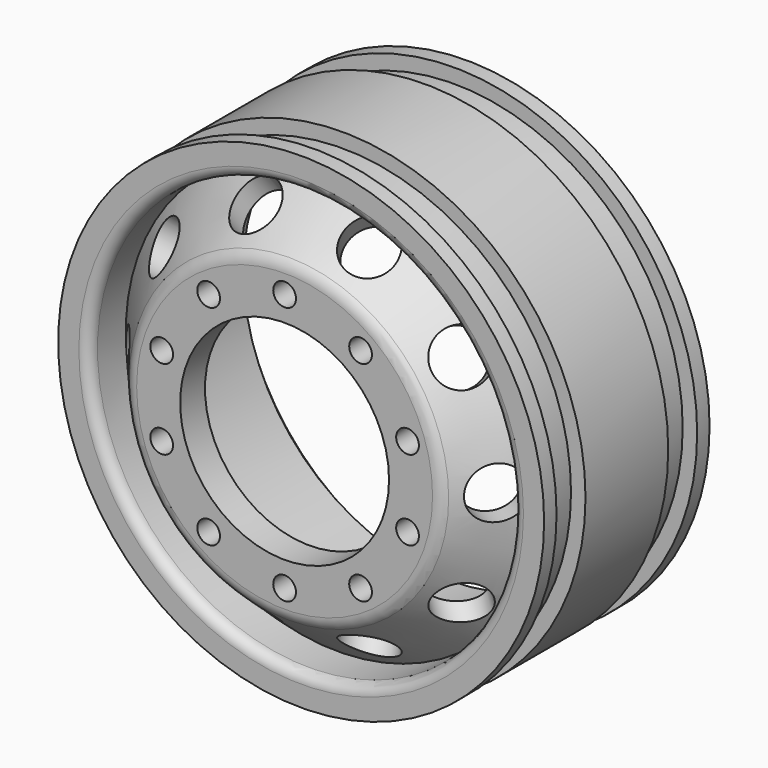
from build123d import *

# Parameters (mm, degrees)
CYLINDER073_R             = 10.1
CYLINDER073_DEPTH         = 26
CYLINDER830_R             = 1.1
CYLINDER830_DEPTH         = 10
CYLINDER829_R             = 1.1
CYLINDER829_DEPTH         = 10
FUSION010_PLACEMENT_ANGLE = 54
CYLINDER831_R             = 1.1
CYLINDER831_DEPTH         = 10
CYLINDER023_R             = 1.1
CYLINDER023_DEPTH         = 10
FUSION011_PLACEMENT_ANGLE = 162
CYLINDER833_R             = 1.1
CYLINDER833_DEPTH         = 10
CYLINDER832_R             = 1.1
CYLINDER832_DEPTH         = 10
FUSION012_PLACEMENT_ANGLE = 126
CYLINDER835_R             = 1.1
CYLINDER835_DEPTH         = 10
CYLINDER834_R             = 1.1
CYLINDER834_DEPTH         = 10
FUSION013_PLACEMENT_ANGLE = 90
CYLINDER828_R             = 1.1
CYLINDER828_DEPTH         = 10
CYLINDER827_R             = 1.1
CYLINDER827_DEPTH         = 10
FUSION009_PLACEMENT_ANGLE = 18
CYLINDER012_R             = 2.5
CYLINDER012_DEPTH         = 8
CYLINDER012_PITCH_ANGLE   = 58
CYLINDER011_R             = 2.5
CYLINDER011_DEPTH         = 8
CYLINDER011_PITCH_ANGLE   = 58
FUSION540_PLACEMENT_ANGLE = 36
CYLINDER014_R             = 2.5
CYLINDER014_DEPTH         = 8
CYLINDER014_PITCH_ANGLE   = 58
CYLINDER013_R             = 2.5
CYLINDER013_DEPTH         = 8
CYLINDER013_PITCH_ANGLE   = 58
FUSION005_PLACEMENT_ANGLE = 72
CYLINDER824_R             = 2.5
CYLINDER824_DEPTH         = 8
CYLINDER824_PITCH_ANGLE   = 58
CYLINDER015_R             = 2.5
CYLINDER015_DEPTH         = 8
CYLINDER015_PITCH_ANGLE   = 58
FUSION006_PLACEMENT_ANGLE = 108
CYLINDER826_R             = 2.5
CYLINDER826_DEPTH         = 8
CYLINDER826_PITCH_ANGLE   = 58
CYLINDER825_R             = 2.5
CYLINDER825_DEPTH         = 8
CYLINDER825_PITCH_ANGLE   = 58
FUSION007_PLACEMENT_ANGLE = 144
CYLINDER823_R             = 2.5
CYLINDER823_DEPTH         = 8
CYLINDER823_PITCH_ANGLE   = 58
CYLINDER822_R             = 2.5
CYLINDER822_DEPTH         = 8
CYLINDER822_PITCH_ANGLE   = 58
CYLINDER821_R             = 20
CYLINDER821_DEPTH         = 12
CYLINDER820_R             = 10
CYLINDER820_DEPTH         = 26
CYLINDER819_R             = 20.5
CYLINDER819_DEPTH         = 10
CYLINDER818_R             = 18.5
CYLINDER818_DEPTH         = 20
CYLINDER817_R             = 22.1
CYLINDER817_DEPTH         = 17
CYLINDER816_R             = 23.5
CYLINDER816_DEPTH         = 17
CYLINDER815_R             = 23.5
CYLINDER815_DEPTH         = 20
CYLINDER814_R             = 22
CYLINDER814_DEPTH         = 17
CYLINDER813_R             = 23.5
CYLINDER813_DEPTH         = 10
FILLET002_R               = 1
CHAMFER001_SIZE           = 1.49
CHAMFER101_SIZE           = 2
FILLET001_R               = 1.5
FILLET_R                  = 1.5
CUT656_ROLL_ANGLE         = 90


with BuildPart() as cylinder073:
    # Cylinder073 → Cylinder073 (new body)
    with BuildSketch(Plane.XY):
        Circle(CYLINDER073_R)
    extrude(amount=CYLINDER073_DEPTH)


with BuildPart() as cylinder830:
    # Cylinder830 → Cylinder830 (new body)
    with BuildSketch(Plane(origin=(-12.5, 0, 13), x_dir=(1, 0, 0), z_dir=(0, 0, 1))):
        Circle(CYLINDER830_R)
    extrude(amount=CYLINDER830_DEPTH)


with BuildPart() as fusion010:
    # Cylinder829 → Cylinder829 (new body)
    with BuildSketch(Plane(origin=(12.5, 0, 13), x_dir=(1, 0, 0), z_dir=(0, 0, 1))):
        Circle(CYLINDER829_R)
    extrude(amount=CYLINDER829_DEPTH)

    # Fusion010: union Cylinder830
    add(cylinder830.part)


with BuildPart() as fusion010_1:
    # Fusion010 placement: moved
    add(fusion010.part.rotate(Axis((0, 0, 0), (0, 0, 1)), FUSION010_PLACEMENT_ANGLE))


with BuildPart() as cylinder831:
    # Cylinder831 → Cylinder831 (new body)
    with BuildSketch(Plane(origin=(-12.5, 0, 13), x_dir=(1, 0, 0), z_dir=(0, 0, 1))):
        Circle(CYLINDER831_R)
    extrude(amount=CYLINDER831_DEPTH)


with BuildPart() as fusion011:
    # Cylinder023 → Cylinder023 (new body)
    with BuildSketch(Plane(origin=(12.5, 0, 13), x_dir=(1, 0, 0), z_dir=(0, 0, 1))):
        Circle(CYLINDER023_R)
    extrude(amount=CYLINDER023_DEPTH)

    # Fusion011: union Cylinder831
    add(cylinder831.part)


with BuildPart() as fusion011_1:
    # Fusion011 placement: moved
    add(fusion011.part.rotate(Axis((0, 0, 0), (0, 0, 1)), FUSION011_PLACEMENT_ANGLE))


with BuildPart() as cylinder999:
    # Cylinder833 → Cylinder833 (new body)
    with BuildSketch(Plane(origin=(-12.5, 0, 13), x_dir=(1, 0, 0), z_dir=(0, 0, 1))):
        Circle(CYLINDER833_R)
    extrude(amount=CYLINDER833_DEPTH)


with BuildPart() as fusion012:
    # Cylinder832 → Cylinder832 (new body)
    with BuildSketch(Plane(origin=(12.5, 0, 13), x_dir=(1, 0, 0), z_dir=(0, 0, 1))):
        Circle(CYLINDER832_R)
    extrude(amount=CYLINDER832_DEPTH)

    # Fusion012: union Cylinder999
    add(cylinder999.part)


with BuildPart() as fusion012_1:
    # Fusion012 placement: moved
    add(fusion012.part.rotate(Axis((0, 0, 0), (0, 0, 1)), FUSION012_PLACEMENT_ANGLE))


with BuildPart() as cylinder1001:
    # Cylinder835 → Cylinder835 (new body)
    with BuildSketch(Plane(origin=(-12.5, 0, 13), x_dir=(1, 0, 0), z_dir=(0, 0, 1))):
        Circle(CYLINDER835_R)
    extrude(amount=CYLINDER835_DEPTH)


with BuildPart() as fusion013:
    # Cylinder834 → Cylinder834 (new body)
    with BuildSketch(Plane(origin=(12.5, 0, 13), x_dir=(1, 0, 0), z_dir=(0, 0, 1))):
        Circle(CYLINDER834_R)
    extrude(amount=CYLINDER834_DEPTH)

    # Fusion013: union Cylinder1001
    add(cylinder1001.part)


with BuildPart() as fusion013_1:
    # Fusion013 placement: moved
    add(fusion013.part.rotate(Axis((0, 0, 0), (0, 0, 1)), FUSION013_PLACEMENT_ANGLE))


with BuildPart() as cylinder828:
    # Cylinder828 → Cylinder828 (new body)
    with BuildSketch(Plane(origin=(-12.5, 0, 13), x_dir=(1, 0, 0), z_dir=(0, 0, 1))):
        Circle(CYLINDER828_R)
    extrude(amount=CYLINDER828_DEPTH)


with BuildPart() as fusion541:
    # Cylinder827 → Cylinder827 (new body)
    with BuildSketch(Plane(origin=(12.5, 0, 13), x_dir=(1, 0, 0), z_dir=(0, 0, 1))):
        Circle(CYLINDER827_R)
    extrude(amount=CYLINDER827_DEPTH)

    # Fusion009: union Cylinder828
    add(cylinder828.part)


with BuildPart() as fusion541_1:
    # Fusion009 placement: moved
    add(fusion541.part.rotate(Axis((0, 0, 0), (0, 0, 1)), FUSION009_PLACEMENT_ANGLE))

    # Fusion541: union Fusion010, Fusion011, Fusion012, Fusion013
    add(fusion010_1.part)
    add(fusion011_1.part)
    add(fusion012_1.part)
    add(fusion013_1.part)


with BuildPart() as cylinder012:
    # Cylinder012 → Cylinder012 (new body)
    with BuildSketch(Plane.XY):
        Circle(CYLINDER012_R)
    extrude(amount=CYLINDER012_DEPTH)


with BuildPart() as cylinder012_1:
    # Cylinder012 pitch: moved
    add(cylinder012.part.rotate(Axis((0, 0, 0), (0, 1, 0)), CYLINDER012_PITCH_ANGLE))


with BuildPart() as cylinder012_2:
    # Cylinder012 placement: moved
    add(cylinder012_1.part.moved(Location((12, 0, 16))))


with BuildPart() as part_mirroring001:
    # Part__Mirroring001: instance of Cylinder012
    add(cylinder012_2.part.mirror(Plane(origin=(0, 0, 0), x_dir=(0, -1, 0), z_dir=(1, 0, 0))))


with BuildPart() as fusion540:
    # Cylinder011 → Cylinder011 (new body)
    with BuildSketch(Plane.XY):
        Circle(CYLINDER011_R)
    extrude(amount=CYLINDER011_DEPTH)


with BuildPart() as fusion540_1:
    # Cylinder011 pitch: moved
    add(fusion540.part.rotate(Axis((0, 0, 0), (0, 1, 0)), CYLINDER011_PITCH_ANGLE))


with BuildPart() as fusion540_2:
    # Cylinder011 placement: moved
    add(fusion540_1.part.moved(Location((12, 0, 16))))

    # Fusion540: union Part__Mirroring001
    add(part_mirroring001.part)


with BuildPart() as fusion540_3:
    # Fusion540 placement: moved
    add(fusion540_2.part.rotate(Axis((0, 0, 0), (0, 0, 1)), FUSION540_PLACEMENT_ANGLE))


with BuildPart() as cylinder014:
    # Cylinder014 → Cylinder014 (new body)
    with BuildSketch(Plane.XY):
        Circle(CYLINDER014_R)
    extrude(amount=CYLINDER014_DEPTH)


with BuildPart() as cylinder014_1:
    # Cylinder014 pitch: moved
    add(cylinder014.part.rotate(Axis((0, 0, 0), (0, 1, 0)), CYLINDER014_PITCH_ANGLE))


with BuildPart() as cylinder014_2:
    # Cylinder014 placement: moved
    add(cylinder014_1.part.moved(Location((12, 0, 16))))


with BuildPart() as part_mirroring002:
    # Part__Mirroring002: instance of Cylinder014
    add(cylinder014_2.part.mirror(Plane(origin=(0, 0, 0), x_dir=(0, -1, 0), z_dir=(1, 0, 0))))


with BuildPart() as fusion005:
    # Cylinder013 → Cylinder013 (new body)
    with BuildSketch(Plane.XY):
        Circle(CYLINDER013_R)
    extrude(amount=CYLINDER013_DEPTH)


with BuildPart() as fusion005_1:
    # Cylinder013 pitch: moved
    add(fusion005.part.rotate(Axis((0, 0, 0), (0, 1, 0)), CYLINDER013_PITCH_ANGLE))


with BuildPart() as fusion005_2:
    # Cylinder013 placement: moved
    add(fusion005_1.part.moved(Location((12, 0, 16))))

    # Fusion005: union Part__Mirroring002
    add(part_mirroring002.part)


with BuildPart() as fusion005_3:
    # Fusion005 placement: moved
    add(fusion005_2.part.rotate(Axis((0, 0, 0), (0, 0, 1)), FUSION005_PLACEMENT_ANGLE))


with BuildPart() as cylinder824:
    # Cylinder824 → Cylinder824 (new body)
    with BuildSketch(Plane.XY):
        Circle(CYLINDER824_R)
    extrude(amount=CYLINDER824_DEPTH)


with BuildPart() as cylinder824_1:
    # Cylinder824 pitch: moved
    add(cylinder824.part.rotate(Axis((0, 0, 0), (0, 1, 0)), CYLINDER824_PITCH_ANGLE))


with BuildPart() as cylinder824_2:
    # Cylinder824 placement: moved
    add(cylinder824_1.part.moved(Location((12, 0, 16))))


with BuildPart() as part_mirroring003:
    # Part__Mirroring003: instance of Cylinder824
    add(cylinder824_2.part.mirror(Plane(origin=(0, 0, 0), x_dir=(0, -1, 0), z_dir=(1, 0, 0))))


with BuildPart() as fusion006:
    # Cylinder015 → Cylinder015 (new body)
    with BuildSketch(Plane.XY):
        Circle(CYLINDER015_R)
    extrude(amount=CYLINDER015_DEPTH)


with BuildPart() as fusion006_1:
    # Cylinder015 pitch: moved
    add(fusion006.part.rotate(Axis((0, 0, 0), (0, 1, 0)), CYLINDER015_PITCH_ANGLE))


with BuildPart() as fusion006_2:
    # Cylinder015 placement: moved
    add(fusion006_1.part.moved(Location((12, 0, 16))))

    # Fusion006: union Part__Mirroring003
    add(part_mirroring003.part)


with BuildPart() as fusion006_3:
    # Fusion006 placement: moved
    add(fusion006_2.part.rotate(Axis((0, 0, 0), (0, 0, 1)), FUSION006_PLACEMENT_ANGLE))


with BuildPart() as cylinder826:
    # Cylinder826 → Cylinder826 (new body)
    with BuildSketch(Plane.XY):
        Circle(CYLINDER826_R)
    extrude(amount=CYLINDER826_DEPTH)


with BuildPart() as cylinder826_1:
    # Cylinder826 pitch: moved
    add(cylinder826.part.rotate(Axis((0, 0, 0), (0, 1, 0)), CYLINDER826_PITCH_ANGLE))


with BuildPart() as cylinder826_2:
    # Cylinder826 placement: moved
    add(cylinder826_1.part.moved(Location((12, 0, 16))))


with BuildPart() as part_mirroring004:
    # Part__Mirroring004: instance of Cylinder826
    add(cylinder826_2.part.mirror(Plane(origin=(0, 0, 0), x_dir=(0, -1, 0), z_dir=(1, 0, 0))))


with BuildPart() as fusion007:
    # Cylinder825 → Cylinder825 (new body)
    with BuildSketch(Plane.XY):
        Circle(CYLINDER825_R)
    extrude(amount=CYLINDER825_DEPTH)


with BuildPart() as fusion007_1:
    # Cylinder825 pitch: moved
    add(fusion007.part.rotate(Axis((0, 0, 0), (0, 1, 0)), CYLINDER825_PITCH_ANGLE))


with BuildPart() as fusion007_2:
    # Cylinder825 placement: moved
    add(fusion007_1.part.moved(Location((12, 0, 16))))

    # Fusion007: union Part__Mirroring004
    add(part_mirroring004.part)


with BuildPart() as fusion007_3:
    # Fusion007 placement: moved
    add(fusion007_2.part.rotate(Axis((0, 0, 0), (0, 0, 1)), FUSION007_PLACEMENT_ANGLE))


with BuildPart() as cylinder823:
    # Cylinder823 → Cylinder823 (new body)
    with BuildSketch(Plane.XY):
        Circle(CYLINDER823_R)
    extrude(amount=CYLINDER823_DEPTH)


with BuildPart() as cylinder823_1:
    # Cylinder823 pitch: moved
    add(cylinder823.part.rotate(Axis((0, 0, 0), (0, 1, 0)), CYLINDER823_PITCH_ANGLE))


with BuildPart() as cylinder823_2:
    # Cylinder823 placement: moved
    add(cylinder823_1.part.moved(Location((12, 0, 16))))


with BuildPart() as part_mirroring:
    # Part__Mirroring: instance of Cylinder823
    add(cylinder823_2.part.mirror(Plane(origin=(0, 0, 0), x_dir=(0, -1, 0), z_dir=(1, 0, 0))))


with BuildPart() as fusion538:
    # Cylinder822 → Cylinder822 (new body)
    with BuildSketch(Plane.XY):
        Circle(CYLINDER822_R)
    extrude(amount=CYLINDER822_DEPTH)


with BuildPart() as fusion538_1:
    # Cylinder822 pitch: moved
    add(fusion538.part.rotate(Axis((0, 0, 0), (0, 1, 0)), CYLINDER822_PITCH_ANGLE))


with BuildPart() as fusion538_2:
    # Cylinder822 placement: moved
    add(fusion538_1.part.moved(Location((12, 0, 16))))

    # Fusion539: union Part__Mirroring
    add(part_mirroring.part)

    # Fusion538: union Fusion540, Fusion005, Fusion006, Fusion007
    add(fusion540_3.part)
    add(fusion005_3.part)
    add(fusion006_3.part)
    add(fusion007_3.part)


with BuildPart() as fusion538_3:
    # Fusion538 placement: moved
    add(fusion538_2.part.moved(Location((0, 0, -1))))


with BuildPart() as cylinder821:
    # Cylinder821 → Cylinder821 (new body)
    with BuildSketch(Plane.XY):
        Circle(CYLINDER821_R)
    extrude(amount=CYLINDER821_DEPTH)


with BuildPart() as cone001:
    # Cone001 → Cone001 (revolve)
    with BuildSketch(Plane(origin=(0, 0, 9), x_dir=(1, 0, 0), z_dir=(0, -1, 0))):
        Polygon((0, 0), (24, 0), (15, 10), (0, 10), align=None)
    revolve(axis=Axis((0, 0, 9), (0, 0, 1)))


with BuildPart() as cylinder820:
    # Cylinder820 → Cylinder820 (new body)
    with BuildSketch(Plane.XY):
        Circle(CYLINDER820_R)
    extrude(amount=CYLINDER820_DEPTH)


with BuildPart() as cut650:
    # Cone → Cone (revolve)
    with BuildSketch(Plane(origin=(0, 0, 15), x_dir=(1, 0, 0), z_dir=(0, -1, 0))):
        Polygon((0, 0), (21, 0), (15, 7), (0, 7), align=None)
    revolve(axis=Axis((0, 0, 15), (0, 0, 1)))

    # Cut651: cut Cylinder820
    add(cylinder820.part, mode=Mode.SUBTRACT)

    # Cut650: cut Cone001
    add(cone001.part, mode=Mode.SUBTRACT)


with BuildPart() as cylinder819:
    # Cylinder819 → Cylinder819 (new body)
    with BuildSketch(Plane.XY.offset(15)):
        Circle(CYLINDER819_R)
    extrude(amount=CYLINDER819_DEPTH)


with BuildPart() as cylinder818:
    # Cylinder818 → Cylinder818 (new body)
    with BuildSketch(Plane.XY):
        Circle(CYLINDER818_R)
    extrude(amount=CYLINDER818_DEPTH)


with BuildPart() as cylinder817:
    # Cylinder817 → Cylinder817 (new body)
    with BuildSketch(Plane.XY):
        Circle(CYLINDER817_R)
    extrude(amount=CYLINDER817_DEPTH)


with BuildPart() as cut649:
    # Cylinder816 → Cylinder816 (new body)
    with BuildSketch(Plane.XY):
        Circle(CYLINDER816_R)
    extrude(amount=CYLINDER816_DEPTH)

    # Cut649: cut Cylinder817
    add(cylinder817.part, mode=Mode.SUBTRACT)


with BuildPart() as cut649_1:
    # Cut649 placement: moved
    add(cut649.part.moved(Location((0, 0, 1.5))))


with BuildPart() as cut648:
    # Cylinder815 → Cylinder815 (new body)
    with BuildSketch(Plane.XY):
        Circle(CYLINDER815_R)
    extrude(amount=CYLINDER815_DEPTH)

    # Cut648: cut Cut649
    add(cut649_1.part, mode=Mode.SUBTRACT)


with BuildPart() as cylinder998:
    # Cylinder814 → Cylinder814 (new body)
    with BuildSketch(Plane.XY):
        Circle(CYLINDER814_R)
    extrude(amount=CYLINDER814_DEPTH)


with BuildPart() as rim_front:
    # Cylinder813 → Cylinder813 (new body)
    with BuildSketch(Plane.XY.offset(0.5)):
        Circle(CYLINDER813_R)
    extrude(amount=CYLINDER813_DEPTH)

    # Cut647: cut Cylinder998
    add(cylinder998.part, mode=Mode.SUBTRACT)


with BuildPart() as rim_front_1:
    # Cut647 placement: moved
    add(rim_front.part.moved(Location((0, 0, 4.5))))

    # Fusion537: union Cut648
    add(cut648.part)

    # Cut646: cut Cylinder818
    add(cylinder818.part, mode=Mode.SUBTRACT)

    # Cut645: cut Cylinder819
    add(cylinder819.part, mode=Mode.SUBTRACT)

    # Fillet002
    fillet002_edges = [rim_front_1.edges().sort_by_distance(p)[0] for p in [
        (-14.495689, 14.495689, 20),
    ]]
    fillet(fillet002_edges, radius=FILLET002_R)

    # Fusion536: union Cut650
    add(cut650.part)

    # Cut644: cut Cylinder821
    add(cylinder821.part, mode=Mode.SUBTRACT)

    # Chamfer001
    chamfer001_edges = [rim_front_1.edges().sort_by_distance(p)[0] for p in [
        (-20, 0, 12),
    ]]
    chamfer(chamfer001_edges, length=CHAMFER001_SIZE)

    # Chamfer101
    chamfer101_edges = [rim_front_1.edges().sort_by_distance(p)[0] for p in [
        (-20, 0, 0),
    ]]
    chamfer(chamfer101_edges, length=CHAMFER101_SIZE)

    # Cut643: cut Fusion538
    add(fusion538_3.part, mode=Mode.SUBTRACT)

    # Cut642: cut Fusion541
    add(fusion541_1.part, mode=Mode.SUBTRACT)

    # Fillet001
    fillet001_edges = [rim_front_1.edges().sort_by_distance(p)[0] for p in [
        (-15, 0, 22),
    ]]
    fillet(fillet001_edges, radius=FILLET001_R)

    # Fillet
    fillet_edges = [rim_front_1.edges().sort_by_distance(p)[0] for p in [
        (-22, 0, 0),
    ]]
    fillet(fillet_edges, radius=FILLET_R)

    # Cut656: cut Cylinder073
    add(cylinder073.part, mode=Mode.SUBTRACT)


with BuildPart() as rim_front_2:
    # Cut656 roll: moved
    add(rim_front_1.part.rotate(Axis((0, 0, 0), (1, 0, 0)), CUT656_ROLL_ANGLE))


with BuildPart() as rim_front_3:
    # Cut656 placement: moved
    add(rim_front_2.part.moved(Location((98, 16, -51))))


solid = rim_front_3.part
